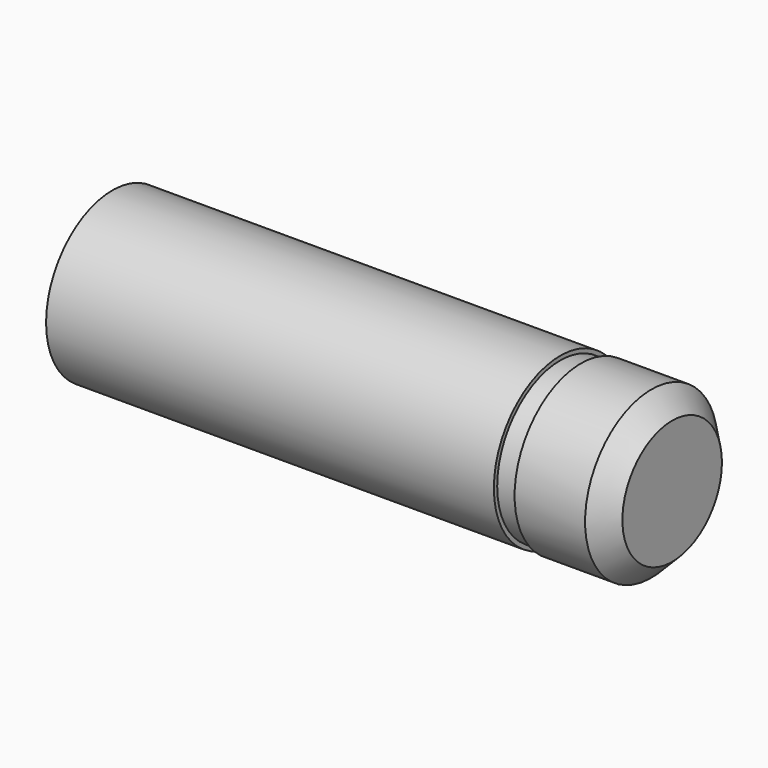
from build123d import *

# Parameters (mm, degrees)
F0_R     = 2
F1_DEPTH = 2.2
F2_R     = 1.9
F3_DEPTH = 0.5
F4_R     = 2
F5_DEPTH = 10.8
F6_SIZE  = 0.5


with BuildPart() as f1:
    # F0 (on Right) → F1 (new body)
    with BuildSketch(Plane.YZ):
        Circle(F0_R)
    extrude(amount=-F1_DEPTH)

    # F2 (on face) → F3 (join)
    with BuildSketch(Plane(origin=(-2.2, 0, 0), x_dir=(0, -1, 0), z_dir=(-1, 0, 0))):
        Circle(F2_R)
    extrude(amount=F3_DEPTH)

    # F4 (on face) → F5 (join)
    with BuildSketch(Plane(origin=(-2.7, 0, 0), x_dir=(0, -1, 0), z_dir=(-1, 0, 0))):
        Circle(F4_R)
    extrude(amount=F5_DEPTH)

    # F6
    f6_edges = [f1.edges().sort_by_distance(p)[0] for p in [
        (0, -2, 0),
    ]]
    chamfer(f6_edges, length=F6_SIZE)


solid = f1.part
